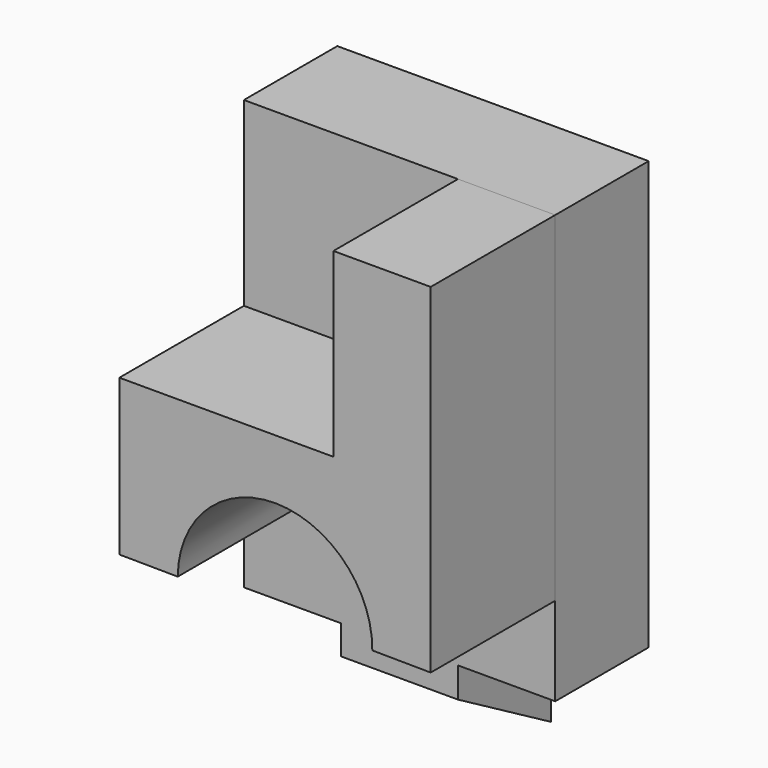
from build123d import *

# Parameters (mm, degrees)
F0_W      = 64
F0_H      = 108
F1_DEPTH  = 24
F3_DEPTH  = 32
F4_DEPTH  = 24
F5_W      = 20
F5_H      = 20
F6_DEPTH  = 25
F7_W      = 20.03756
F7_H      = 24
F8_DEPTH  = 20
F10_DEPTH = 25


with BuildPart() as f1:
    # F0 (on Front) → F1 (new body)
    with BuildSketch(Plane.XZ):
        with Locations((3.011967, 0)):
            Rectangle(F0_W, F0_H)
    extrude(amount=F1_DEPTH)

    # F5 (on face) → F6 (cut)
    with BuildSketch(Plane.XZ.offset(24)):
        with Locations((-19.025593, -44.19416)):
            Rectangle(F5_W, F5_H)
    extrude(amount=-F6_DEPTH, mode=Mode.SUBTRACT)

    # F7 (on face) → F8 (cut)
    with BuildSketch(Plane(origin=(0, 0, -54), x_dir=(1, 0, 0), z_dir=(0, 0, -1))):
        with Locations((24.993187, 12)):
            Rectangle(F7_W, F7_H)
    extrude(amount=-F8_DEPTH, mode=Mode.SUBTRACT)

    # F9 (on face) → F10 (cut)
    with BuildSketch(Plane(origin=(-9.025593, 0, 0), x_dir=(0, -1, 0), z_dir=(-1, 0, 0))):
        Polygon((24, -54), (24, -40.19416), (0, -54), align=None)
    extrude(amount=-F10_DEPTH, mode=Mode.SUBTRACT)


with BuildPart() as f3:
    # F2 (on face) → F3 (new body)
    with BuildSketch(Plane.XZ.offset(24)):
        with BuildLine():
            Line((35.011967, 54), (15.011967, 54))
            Line((15.011967, 54), (15.011967, 16.758138))
            Line((15.011967, 16.758138), (-28.9857, 16.758138))
            Line((-28.9857, 16.758138), (-28.9857, -15.241862))
            Line((-28.9857, -15.241862), (-16.986138, -15.344322))
            ThreePointArc((-16.986138, -15.344322), (3.1839, 4.484182), (23.012404, -15.685855))
            Line((23.012404, -15.685855), (35.011967, -15.788315))
            Line((35.011967, -15.788315), (35.011967, 54))
        make_face()
    extrude(amount=F3_DEPTH)


with BuildPart() as f4:
    # F2 (on face) → F4 (new body)
    with BuildSketch(Plane.XZ.offset(24)):
        with BuildLine():
            ThreePointArc((23.012404, -15.685855), (3.1839, 4.484182), (-16.986138, -15.344322))
            Line((-16.986138, -15.344322), (23.012404, -15.685855))
        make_face()
    extrude(amount=-F4_DEPTH)


solid = Compound([f1.part, f3.part, f4.part])
